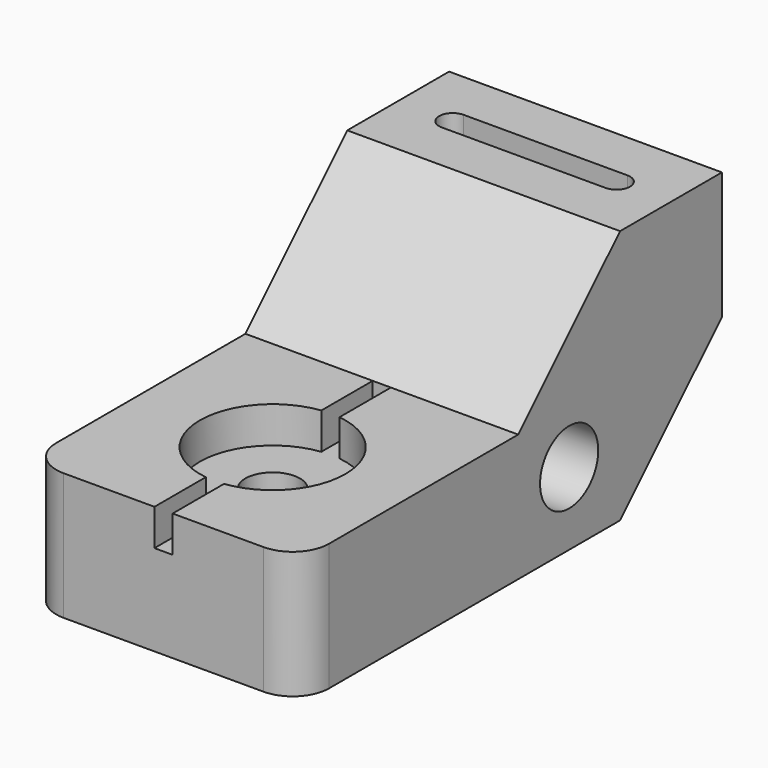
from build123d import *

# Parameters (mm, degrees)
F1_DEPTH       = 76.2
F3_D           = 15.24
F3_CBORE_D     = 40.64
F3_CBORE_DEPTH = 10.16
F5_DEPTH       = 76.2
F6_R           = 10.16
F7_DEPTH       = 76.2
F9_DEPTH       = 27.94
F10_R          = 10.16


with BuildPart() as f1:
    # F0 (on Right) → F1 (new body)
    with BuildSketch(Plane.YZ):
        Polygon((0, 35.56), (0, 0), (111.76, 0), (147.32, 35.56), (147.32, 71.12), (111.76, 71.12), (76.2, 35.56), align=None)
    extrude(amount=F1_DEPTH)

    # F3 (through all)
    with Locations(Plane.XY.offset(35.56)):
        with Locations((38.1, 38.1)):
            CounterBoreHole(F3_D / 2, F3_CBORE_D / 2, F3_CBORE_DEPTH)

    # F4 (on face) → F5 (cut)
    with BuildSketch(Plane.XZ):
        Polygon((40.64, 35.56), (38.1, 35.56), (35.56, 35.56), (35.56, 25.4), (40.64, 25.4), align=None)
    extrude(amount=-F5_DEPTH, mode=Mode.SUBTRACT)

    # F6 (on face) → F7 (cut)
    with BuildSketch(Plane.YZ.offset(76.2)):
        with Locations((93.98, 20.32)):
            Circle(F6_R)
    extrude(amount=-F7_DEPTH, mode=Mode.SUBTRACT)

    # F8 (on face) → F9 (cut)
    with BuildSketch(Plane.XY.offset(71.12)):
        with BuildLine():
            Line((60.96, 133.35), (15.24, 133.35))
            ThreePointArc((15.24, 133.35), (11.43, 129.54), (15.24, 125.73))
            Line((15.24, 125.73), (60.96, 125.73))
            ThreePointArc((60.96, 125.73), (64.77, 129.54), (60.96, 133.35))
        make_face()
    extrude(amount=-F9_DEPTH, mode=Mode.SUBTRACT)

    # F10
    f10_edges = [f1.edges().sort_by_distance(p)[0] for p in [
        (0, 0, 17.78),
        (76.2, 0, 17.78),
    ]]
    fillet(f10_edges, radius=F10_R)


solid = f1.part
